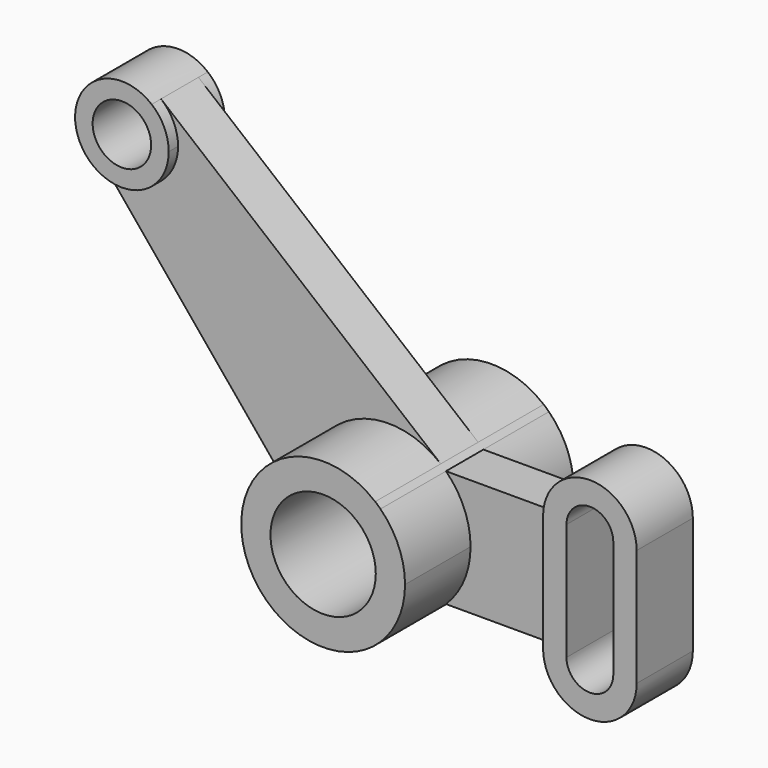
from build123d import *

# Parameters (mm, degrees)
F0_R     = 12.5
F0_R_2   = 22.5
F1_DEPTH = 10
F2_DEPTH = 15
F3_DEPTH = 45


with BuildPart() as f1:
    # F0 (on Front) → F1 (new body, symmetric)
    with BuildSketch(Plane.XZ):
        with BuildLine():
            ThreePointArc((-97.287398, 125.439875), (-91.913374, 118.536626), (-90, 110))
            ThreePointArc((-90, 110), (-103.24713, 91.174519), (-125.439875, 97.287398))
            Line((-125.439875, 97.287398), (-27.019781, -22.247054))
            ThreePointArc((-27.019781, -22.247054), (-24.748737, 24.748738), (22.247054, 27.019781))
            Line((22.247054, 27.019781), (-97.287398, 125.439875))
        make_face()
        with BuildLine():
            Line((24.700145, 25), (24.494897, 25))
            ThreePointArc((24.494897, 25), (32.267022, 13.558735), (35, 0))
            ThreePointArc((35, 0), (32.267022, -13.558735), (24.494897, -25))
            Line((24.494897, -25), (70, -25))
            Line((70, -25), (70, 25))
            Line((70, 25), (24.700145, 25))
        make_face()
        with BuildLine():
            ThreePointArc((-125.439875, 97.287398), (-103.24713, 91.174519), (-90, 110))
            ThreePointArc((-90, 110), (-91.913374, 118.536626), (-97.287398, 125.439875))
            ThreePointArc((-97.287398, 125.439875), (-124.142136, 124.142136), (-125.439875, 97.287398))
        make_face()
        with Locations((-110, 110)):
            Circle(F0_R, mode=Mode.SUBTRACT)
        with BuildLine():
            ThreePointArc((24.494897, 25), (23.392785, 26.034162), (22.247054, 27.019781))
            ThreePointArc((22.247054, 27.019781), (-24.748737, 24.748738), (-27.019781, -22.247054))
            ThreePointArc((-27.019781, -22.247054), (-1.867736, -34.95013), (24.494897, -25))
            ThreePointArc((24.494897, -25), (32.267022, -13.558735), (35, 0))
            ThreePointArc((35, 0), (32.267022, 13.558735), (24.494897, 25))
        make_face()
        Circle(F0_R_2, mode=Mode.SUBTRACT)
        with BuildLine():
            ThreePointArc((110, 25), (90, 45), (70, 25))
            Line((70, 25), (70, -25))
            ThreePointArc((70, -25), (90, -45), (110, -25))
            Line((110, -25), (110, 25))
        make_face()
        with BuildLine():
            ThreePointArc((80, 25), (90, 35), (100, 25))
            Line((100, 25), (100, -25))
            ThreePointArc((100, -25), (90, -35), (80, -25))
            Line((80, -25), (80, 25))
        make_face(mode=Mode.SUBTRACT)
    extrude(amount=F1_DEPTH, both=True)

    # F0 (on Front) → F2 (join, symmetric)
    with BuildSketch(Plane.XZ):
        with BuildLine():
            ThreePointArc((110, 25), (90, 45), (70, 25))
            Line((70, 25), (70, -25))
            ThreePointArc((70, -25), (90, -45), (110, -25))
            Line((110, -25), (110, 25))
        make_face()
        with BuildLine():
            ThreePointArc((80, 25), (90, 35), (100, 25))
            Line((100, 25), (100, -25))
            ThreePointArc((100, -25), (90, -35), (80, -25))
            Line((80, -25), (80, 25))
        make_face(mode=Mode.SUBTRACT)
        with BuildLine():
            ThreePointArc((-125.439875, 97.287398), (-103.24713, 91.174519), (-90, 110))
            ThreePointArc((-90, 110), (-91.913374, 118.536626), (-97.287398, 125.439875))
            ThreePointArc((-97.287398, 125.439875), (-124.142136, 124.142136), (-125.439875, 97.287398))
        make_face()
        with Locations((-110, 110)):
            Circle(F0_R, mode=Mode.SUBTRACT)
    extrude(amount=F2_DEPTH, both=True)

    # F0 (on Front) → F3 (join, symmetric)
    with BuildSketch(Plane.XZ):
        with BuildLine():
            ThreePointArc((24.494897, 25), (23.392785, 26.034162), (22.247054, 27.019781))
            ThreePointArc((22.247054, 27.019781), (-24.748737, 24.748738), (-27.019781, -22.247054))
            ThreePointArc((-27.019781, -22.247054), (-1.867736, -34.95013), (24.494897, -25))
            ThreePointArc((24.494897, -25), (32.267022, -13.558735), (35, 0))
            ThreePointArc((35, 0), (32.267022, 13.558735), (24.494897, 25))
        make_face()
        Circle(F0_R_2, mode=Mode.SUBTRACT)
    extrude(amount=F3_DEPTH, both=True)


solid = f1.part
